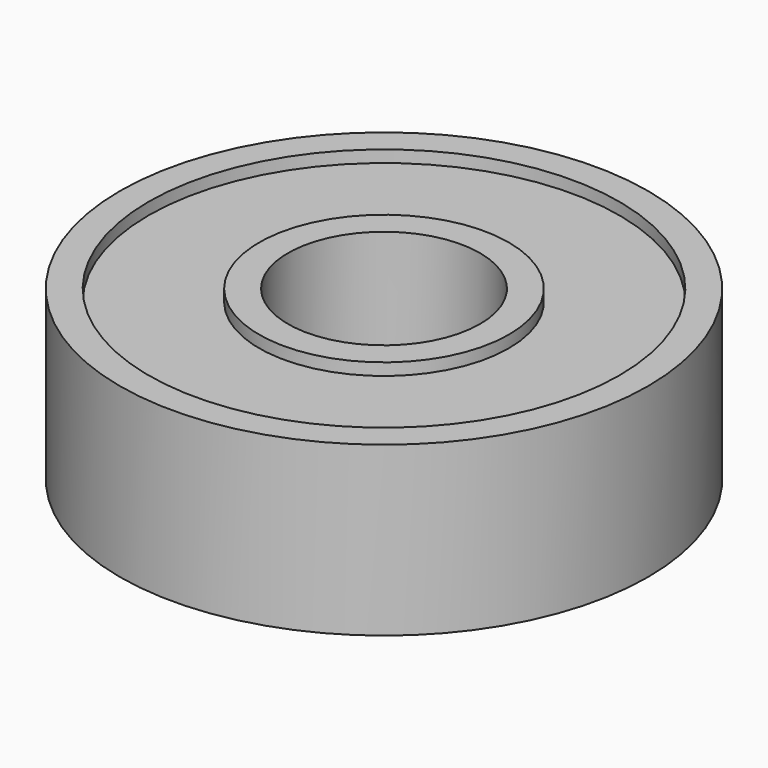
from build123d import *

# Parameters (mm, degrees)
F1_R     = 11
F1_R_2   = 9.8
F2_DEPTH = 3.5
F1_R_3   = 5.2
F1_R_4   = 4
F3_DEPTH = 3


with BuildPart() as f2:
    # F1 (on Top) → F2 (new body, symmetric)
    with BuildSketch(Plane.XY):
        Circle(F1_R)
        Circle(F1_R_2, mode=Mode.SUBTRACT)
    extrude(amount=F2_DEPTH, both=True)



with BuildPart() as f2b:
    # F1 (on Top) → F2, piece 2 (new body, symmetric)
    with BuildSketch(Plane.XY):
        Circle(F1_R_3)
        Circle(F1_R_4, mode=Mode.SUBTRACT)
    extrude(amount=F2_DEPTH, both=True)


with BuildPart() as f2_1:
    add(f2.part)

    add(f2b.part)  # F3 merges F2b
    # F1 (on Top) → F3 (join, symmetric)
    with BuildSketch(Plane.XY):
        Circle(F1_R_2)
        Circle(F1_R_3, mode=Mode.SUBTRACT)
    extrude(amount=F3_DEPTH, both=True)


solid = f2_1.part
